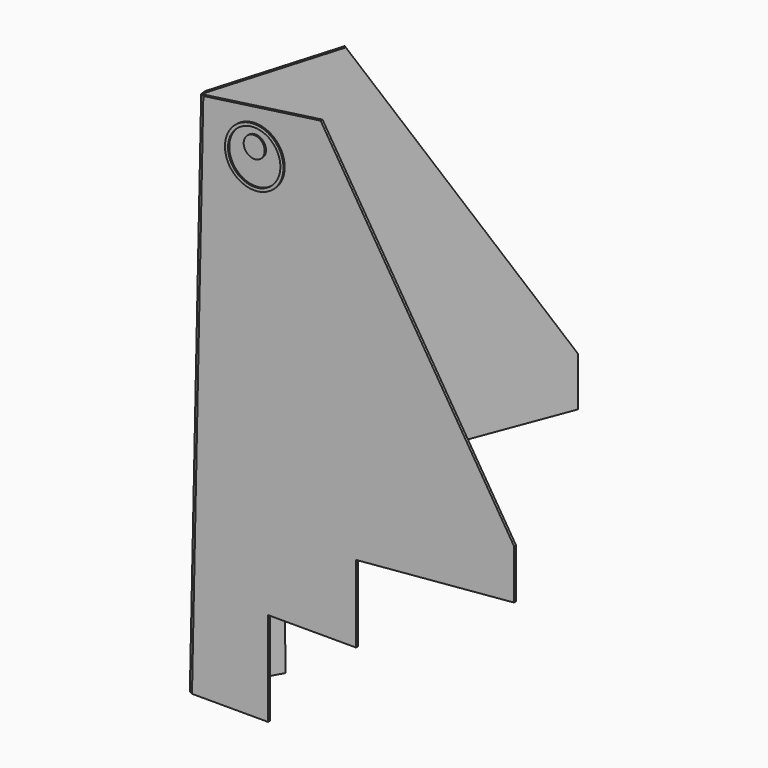
from build123d import *

# Parameters (mm, degrees)
F0_R     = 36.584827005
F1_DEPTH = 3
F0_R_2   = 32.774827005
F0_R_3   = 13.1541852918
F2_DEPTH = 3
F3_DEPTH = 5
F4_SIZE2 = 2.8867513459
F4_SIZE  = 5
F6_ANGLE = 120


with BuildPart() as f1:
    # F0 (on Front) → F1 (new body)
    with BuildSketch(Plane.XZ):
        Polygon((7.2008693563, 335.2634514374), (-139.4087579186, 314.7579599108), (-153.5921068929, -347.9956916551), (-58.5493028987, -347.9956916551), (-58.5493028987, -230.3451157951), (7.2008693563, -230.3451157951), align=None)
        with Locations((-74.2221731176, 269.485764052)):
            Circle(F0_R, mode=Mode.SUBTRACT)
        Polygon((-153.5921068929, -347.9956916551), (-139.4087579186, 314.7579599108), (-144.4237688014, 314.0565376027), (-158.5921068929, -347.9956916551), align=None)
        Polygon((249.1839155917, -54.6336494631), (7.2008693563, 335.2634514374), (7.2008693563, -230.3451157951), (51.5812577619, -230.3451157951), (51.5812577619, -133.8431480362), (249.1839155917, -116.5734241243), align=None)
    extrude(amount=F1_DEPTH)



with BuildPart() as f2:
    # F0 (on Front) → F2 (new body)
    with BuildSketch(Plane.XZ):
        with Locations((-74.2221731176, 269.485764052)):
            Circle(F0_R_2)
        with Locations((-74.2221731176, 280.5915696875)):
            Circle(F0_R_3, mode=Mode.SUBTRACT)
    extrude(amount=F2_DEPTH)


with BuildPart() as f1_1:
    add(f1.part)

    add(f2.part)  # F3 merges F2
    # F0 (on Front) → F3 (join)
    with BuildSketch(Plane.XZ):
        with Locations((-74.2221731176, 269.485764052)):
            Circle(F0_R)
        with Locations((-74.2221731176, 269.485764052)):
            Circle(F0_R_2, mode=Mode.SUBTRACT)
        with Locations((-74.2221731176, 280.5915696875)):
            Circle(F0_R_3)
    extrude(amount=F3_DEPTH)

    # F4
    f4_edges = [f1_1.edges().sort_by_distance(p)[0] for p in [
        (-151.507938, -3, -16.969577),
    ]]
    f4_side = f1_1.faces().sort_by_distance((-4.46618, -3, 3.089174))[0]
    chamfer(f4_edges, length=F4_SIZE, length2=F4_SIZE2, reference=f4_side)


with BuildPart() as f5_1:
    # F5: instance of F1
    add(f1_1.part.mirror(Plane(origin=(-151.5079378471, -0.056624327, -16.9695770262), x_dir=(0, -1, 0), z_dir=(-0.999771085, 0, 0.021395736))))


with BuildPart() as f5_1_1:
    # F6: moved
    add(f5_1.part.rotate(Axis((-151.5079378471, 0, -16.9695770262), (-0.021395736, 0, -0.999771085)), F6_ANGLE))


solid = Compound([f1_1.part, f5_1_1.part])
